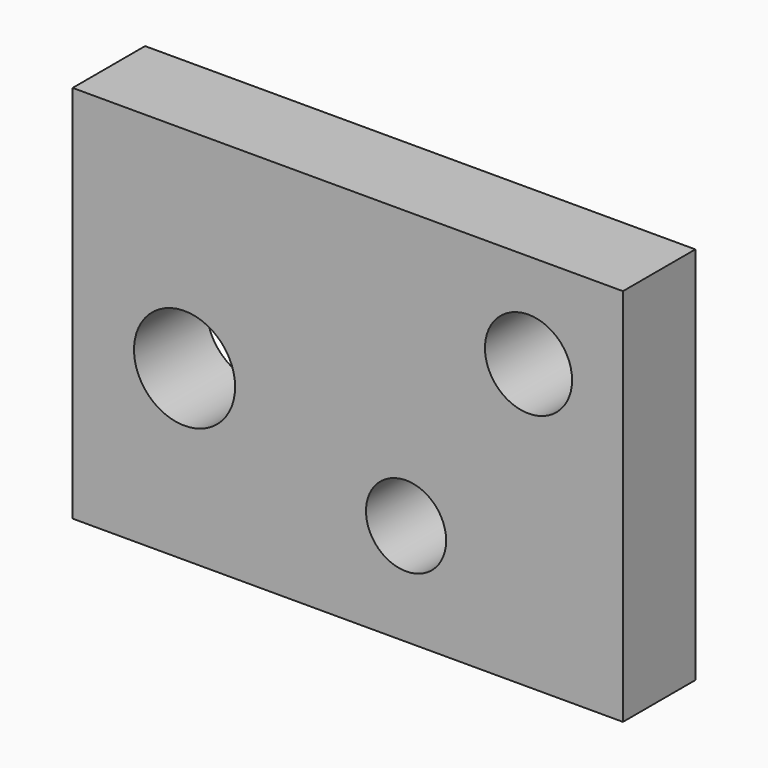
from build123d import *

# Parameters (mm, degrees)
F0_W     = 154.397294
F0_H     = 106.395006
F0_R     = 14.18479
F0_R_2   = 11.248804
F0_R_3   = 12.224016
F1_DEPTH = 25.4


with BuildPart() as f1:
    # F0 (on Front) → F1 (new body)
    with BuildSketch(Plane.XZ):
        Rectangle(F0_W, F0_H)
        with Locations((-45.795806, -5.860072)):
            Circle(F0_R, mode=Mode.SUBTRACT)
        with Locations((16.355645, -24.555137)):
            Circle(F0_R_2, mode=Mode.SUBTRACT)
        with Locations((50.702501, 26.576173)):
            Circle(F0_R_3, mode=Mode.SUBTRACT)
    extrude(amount=F1_DEPTH)


solid = f1.part
